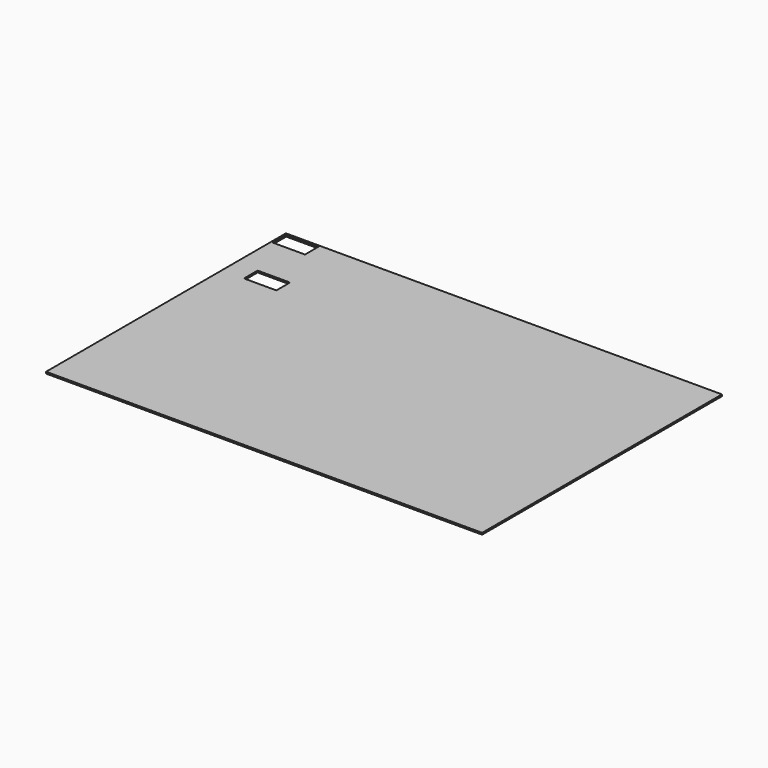
from build123d import *

# Parameters (mm, degrees)
F0_W     = 812.8
F0_H     = 558.8
F1_DEPTH = 3.175
F2_W     = 60.325
F2_H     = 31.75
F3_DEPTH = 3.176


with BuildPart() as f1:
    # F0 (on Top) → F1 (new body)
    with BuildSketch(Plane.XY):
        Rectangle(F0_W, F0_H)
    extrude(amount=F1_DEPTH)

    # F2 (on face) → F3 (cut, through all)
    with BuildSketch(Plane.XY.offset(3.175)):
        with Locations((-373.0625, 260.35)):
            Rectangle(F2_W, F2_H)
        with Locations((-334.9625, 146.05)):
            Rectangle(F2_W, F2_H)
    extrude(amount=-F3_DEPTH, mode=Mode.SUBTRACT)


solid = f1.part
